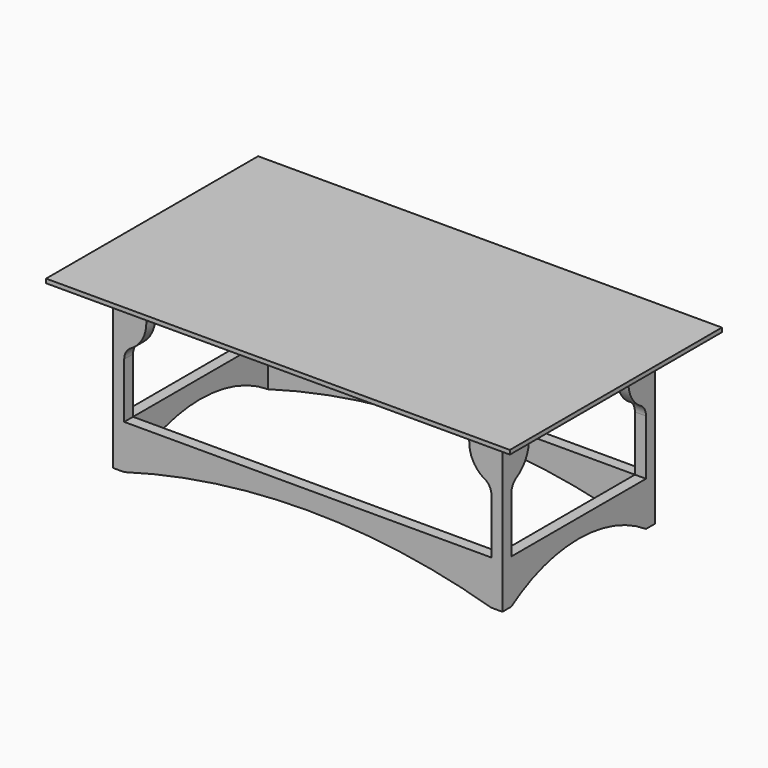
from build123d import *

# Parameters (mm, degrees)
F0_W      = 2057.4
F0_H      = 1143
F1_DEPTH  = 19.05
F3_DEPTH  = 50.8
F5_DEPTH  = 50.8
F7_DEPTH  = 50.8
F10_DEPTH = 50.8
F12_DEPTH = 50.8
F14_DEPTH = 50.8
F16_DEPTH = 50.8
F18_DEPTH = 50.8


with BuildPart() as f1:
    # F0 (on Top) → F1 (new body)
    with BuildSketch(Plane.XY):
        Polygon((1066.8, 609.6), (0, 609.6), (-1066.8, 609.6), (-1066.8, -609.6), (-1028.7, -609.6), (1066.8, -609.6), align=None)
        Rectangle(F0_W, F0_H, mode=Mode.SUBTRACT)
        Rectangle(F0_W, F0_H)
    extrude(amount=F1_DEPTH)

    # F2 (on face) → F3 (join)
    with BuildSketch(Plane(origin=(0, 0, 0), x_dir=(1, 0, 0), z_dir=(0, 0, -1))):
        Polygon((-914.4, -457.2), (0, -457.2), (914.4, -457.2), (914.4, 457.2), (0, 457.2), (-914.4, 457.2), align=None)
        Polygon((895.35, -438.15), (0, -438.15), (-895.35, -438.15), (-895.35, 438.15), (0, 438.15), (895.35, 438.15), align=None, mode=Mode.SUBTRACT)
    extrude(amount=F3_DEPTH)

    # F4 (on face) → F5 (join)
    with BuildSketch(Plane(origin=(0, -438.15, 0), x_dir=(-1, 0, 0), z_dir=(0, 1, 0))):
        with BuildLine():
            Line((895.35, -762), (895.35, 0))
            Line((895.35, 0), (742.95, 0))
            Line((742.95, 0), (615.95, 0))
            ThreePointArc((615.95, 0), (705.7525612107, -37.1974387893), (742.95, -127))
            ThreePointArc((742.95, -127), (763.4615182258, -201.0530890645), (819.15, -254))
            ThreePointArc((819.15, -254), (837.8461266285, -276.4019366858), (844.55, -304.8))
            Line((844.55, -304.8), (844.55, -762))
            Line((844.55, -762), (895.35, -762))
        make_face()
    extrude(amount=F5_DEPTH)

    # F6 (on face) → F7 (join)
    with BuildSketch(Plane.XZ.offset(-438.15)):
        with BuildLine():
            Line((-742.95, 0), (-895.35, 0))
            Line((-895.35, 0), (-895.35, -127))
            Line((-895.35, -127), (-895.35, -203.2))
            Line((-895.35, -203.2), (-895.35, -762))
            Line((-895.35, -762), (-844.55, -762))
            Line((-844.55, -762), (-844.55, -304.8))
            ThreePointArc((-844.55, -304.8), (-837.8461266285, -276.4019366858), (-819.15, -254))
            ThreePointArc((-819.15, -254), (-760.8906614316, -202.595603141), (-742.95, -127))
            ThreePointArc((-742.95, -127), (-705.7525612107, -37.1974387893), (-615.95, 0))
            Line((-615.95, 0), (-742.95, 0))
        make_face()
    extrude(amount=F7_DEPTH)

    # F8: F1 across plane


with BuildPart() as f1_1:
    add(f1.part)
    add(f1.part.mirror(Plane.YZ))

    # F9 (on face) → F10 (join)
    with BuildSketch(Plane.XZ.offset(438.15)):
        with BuildLine():
            Line((-844.55, -558.8), (-844.55, -762))
            ThreePointArc((-844.55, -762), (0, -642.6582759858), (844.55, -762))
            Line((844.55, -762), (844.55, -558.8))
            Line((844.55, -558.8), (-844.55, -558.8))
        make_face()
    extrude(amount=-F10_DEPTH)

    # F11 (on face) → F12 (join)
    with BuildSketch(Plane(origin=(0, 438.15, 0), x_dir=(-1, 0, 0), z_dir=(0, 1, 0))):
        with BuildLine():
            ThreePointArc((-844.55, -762), (0, -642.6582759858), (844.55, -762))
            Line((844.55, -762), (844.55, -558.8))
            Line((844.55, -558.8), (-844.55, -558.8))
            Line((-844.55, -558.8), (-844.55, -762))
        make_face()
    extrude(amount=-F12_DEPTH)

    # F13 (on face) → F14 (join)
    with BuildSketch(Plane.YZ.offset(-895.35)):
        with BuildLine():
            Line((-387.35, -560.2836336464), (-387.35, -762))
            ThreePointArc((-387.35, -762), (0, -644.1417336464), (387.35, -762))
            Line((387.35, -762), (387.35, -560.2836336464))
            Line((387.35, -560.2836336464), (-387.35, -560.2836336464))
        make_face()
    extrude(amount=F14_DEPTH)

    # F15 (on face) → F16 (join)
    with BuildSketch(Plane(origin=(895.35, 0, 0), x_dir=(0, -1, 0), z_dir=(-1, 0, 0))):
        with BuildLine():
            Line((-387.35, -558.8), (-387.35, -762))
            ThreePointArc((-387.35, -762), (0, -642.6581), (387.35, -762))
            Line((387.35, -762), (387.35, -558.8))
            Line((387.35, -558.8), (-387.35, -558.8))
        make_face()
    extrude(amount=F16_DEPTH)

    # F17 (on face) → F18 (join)
    with BuildSketch(Plane.YZ.offset(-895.35)):
        with BuildLine():
            Line((387.35, -304.8), (387.35, 0))
            Line((387.35, 0), (158.75, 0))
            ThreePointArc((158.75, 0), (248.5525612107, -37.1974387893), (285.75, -127))
            ThreePointArc((285.75, -127), (306.2615182258, -201.0530890645), (361.95, -254))
            ThreePointArc((361.95, -254), (380.6461266285, -276.4019366858), (387.35, -304.8))
        make_face()
        with BuildLine():
            Line((-387.35, 0), (-387.35, -304.8))
            ThreePointArc((-387.35, -304.8), (-380.6461266285, -276.4019366858), (-361.95, -254))
            ThreePointArc((-361.95, -254), (-306.2615182258, -201.0530890645), (-285.75, -127))
            ThreePointArc((-285.75, -127), (-248.5525612107, -37.1974387893), (-158.75, 0))
            Line((-158.75, 0), (-387.35, 0))
        make_face()
    extrude(amount=F18_DEPTH)

    # F19: F1 across plane


with BuildPart() as f1_2:
    add(f1_1.part)
    add(f1_1.part.mirror(Plane.YZ))


solid = f1_2.part
